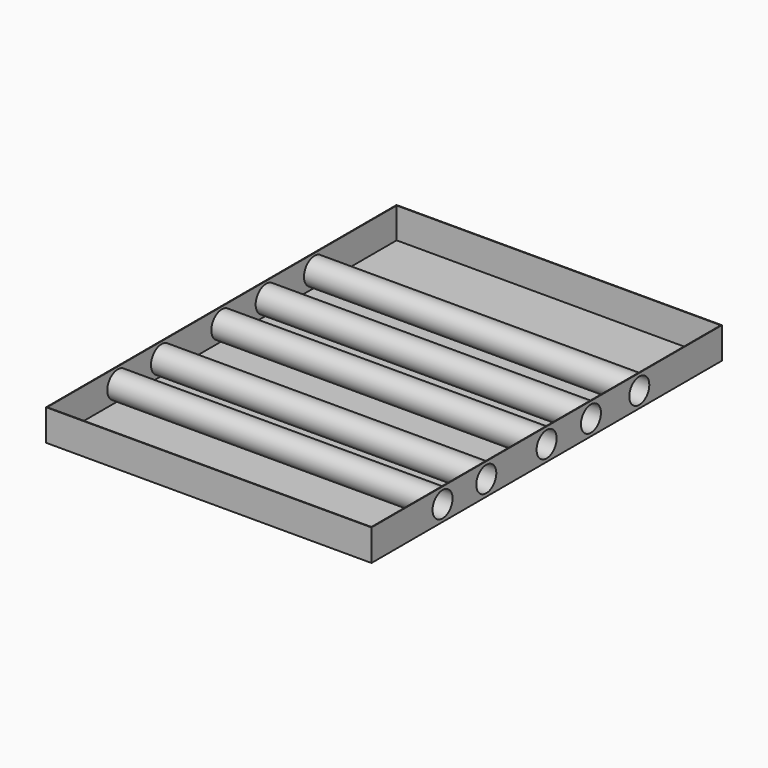
from build123d import *

# Parameters (mm, degrees)
F0_W     = 1320.8
F0_H     = 127
F1_DEPTH = 1778
F2_R     = 50.8
F3_DEPTH = 1465.58
F4_T     = -2.54


with BuildPart() as f1:
    # F0 (on Front) → F1 (new body)
    with BuildSketch(Plane.XZ):
        with Locations((-660.4, 63.5)):
            Rectangle(F0_W, F0_H)
    extrude(amount=-F1_DEPTH)

    # F2 (on face) → F3 (cut)
    with BuildSketch(Plane(origin=(-1320.8, 0, 0), x_dir=(0, -1, 0), z_dir=(-1, 0, 0))):
        with Locations((-1358.689666, 63.5)):
            Circle(F2_R)
        with Locations((-888.521751, 63.5)):
            Circle(F2_R)
        with Locations((-360.66384, 63.5)):
            Circle(F2_R)
        with Locations((-582.459867, 63.5)):
            Circle(F2_R)
        with Locations((-1113.455415, 63.5)):
            Circle(F2_R)
    extrude(amount=-F3_DEPTH, mode=Mode.SUBTRACT)

    # F4
    f4_openings = [f1.faces().sort_by_distance(p)[0] for p in [
        (-660.4, 889, 127),
    ]]
    offset(amount=F4_T, openings=f4_openings)


solid = f1.part
